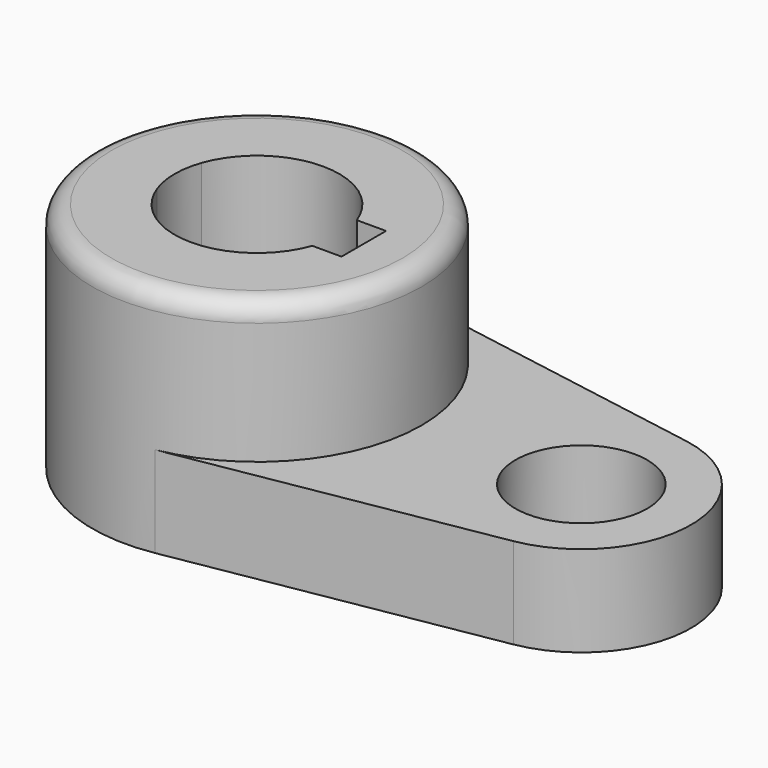
from build123d import *

# Parameters (mm, degrees)
F0_R     = 11.43
F1_DEPTH = 15.7734
F2_DEPTH = 40.2336
F3_R     = 3.302


with BuildPart() as f1:
    # F0 (on Top) → F1 (new body)
    with BuildSketch(Plane.XY):
        with BuildLine():
            ThreePointArc((4.8377539503, 28.162506311), (21.8491354993, 18.4159143931), (28.575, 0))
            ThreePointArc((28.575, 0), (21.8491354993, -18.4159143931), (4.8377539503, -28.162506311))
            Line((4.8377539503, -28.162506311), (59.4861693002, -18.7750042073))
            ThreePointArc((59.4861693002, -18.7750042073), (37.211, 0), (59.4861693002, 18.7750042073))
            Line((59.4861693002, 18.7750042073), (4.8377539503, 28.162506311))
        make_face()
        with BuildLine():
            ThreePointArc((75.311, 0), (70.8270903328, 12.2772762621), (59.4861693002, 18.7750042073))
            ThreePointArc((59.4861693002, 18.7750042073), (37.211, 0), (59.4861693002, -18.7750042073))
            ThreePointArc((59.4861693002, -18.7750042073), (70.8270903328, -12.2772762621), (75.311, 0))
        make_face()
        with Locations((56.261, 0)):
            Circle(F0_R, mode=Mode.SUBTRACT)
    extrude(amount=F1_DEPTH)

    # F0 (on Top) → F2 (join)
    with BuildSketch(Plane.XY):
        with BuildLine():
            ThreePointArc((4.8377539503, -28.162506311), (21.8491354993, -18.4159143931), (28.575, 0))
            ThreePointArc((28.575, 0), (21.8491354993, 18.4159143931), (4.8377539503, 28.162506311))
            ThreePointArc((4.8377539503, 28.162506311), (-28.575, 0), (4.8377539503, -28.162506311))
        make_face()
        with BuildLine():
            ThreePointArc((-13.4477648793, 4.826), (0, 14.2875), (13.4477648793, 4.826))
            Line((13.4477648793, 4.826), (18.5293, 4.826))
            Line((18.5293, 4.826), (18.5293, -4.826))
            Line((18.5293, -4.826), (13.4477648793, -4.826))
            ThreePointArc((13.4477648793, -4.826), (0, -14.2875), (-13.4477648793, -4.826))
            Line((-13.4477648793, -4.826), (-18.5293, -4.826))
            Line((-18.5293, -4.826), (-18.5293, 4.826))
            Line((-18.5293, 4.826), (-13.4477648793, 4.826))
        make_face(mode=Mode.SUBTRACT)
        with BuildLine():
            ThreePointArc((-13.4477648793, -4.826), (-14.2875, 0), (-13.4477648793, 4.826))
            Line((-13.4477648793, 4.826), (-18.5293, 4.826))
            Line((-18.5293, 4.826), (-18.5293, -4.826))
            Line((-18.5293, -4.826), (-13.4477648793, -4.826))
        make_face()
    extrude(amount=F2_DEPTH)

    # F3
    f3_edges = [f1.edges().sort_by_distance(p)[0] for p in [
        (-28.575, 0, 40.2336),
    ]]
    fillet(f3_edges, radius=F3_R)


solid = f1.part
